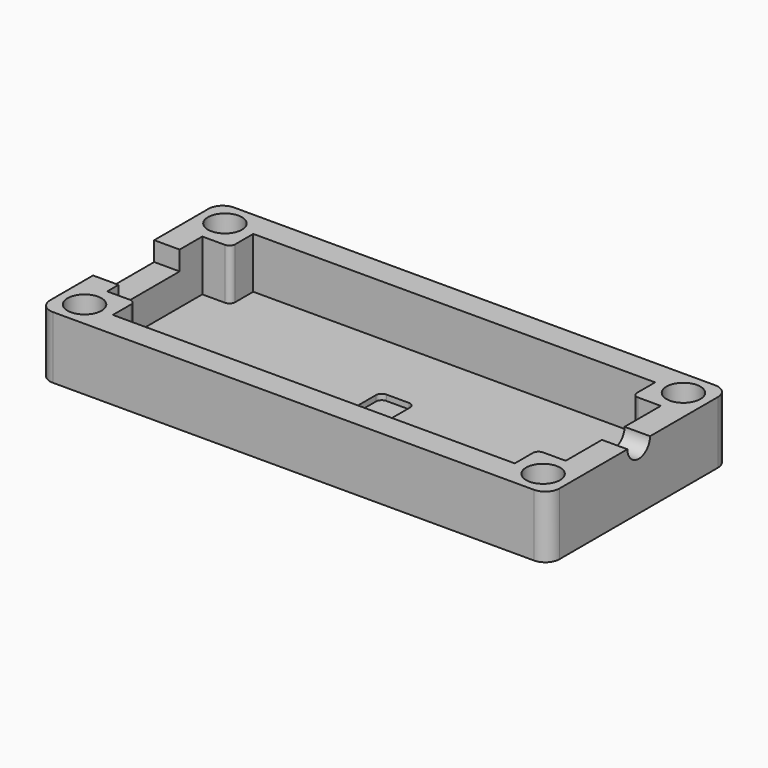
from build123d import *

# Parameters (mm, degrees)
SKETCH_W        = 90
SKETCH_H        = 40
PAD_DEPTH       = 11
POCKET_DEPTH    = 9
POCKET001_DEPTH = 6
SKETCH003_W     = 13.5
SKETCH003_H     = 3.4
POCKET002_DEPTH = 6
SKETCH005_R     = 3
HOLE_DEPTH      = 25
FILLET_R        = 1
FILLET001_R     = 2.5
SKETCH007_W     = 6
SKETCH007_H     = 6
POCKET003_DEPTH = 1
FILLET002_R     = 1


with BuildPart() as part:
    # Sketch → Pad (new body)
    with BuildSketch(Plane.XY):
        with Locations((45, 20)):
            Rectangle(SKETCH_W, SKETCH_H)
    extrude(amount=PAD_DEPTH)

    # Sketch001 (on Face6 of Pad) → Pocket (cut)
    with BuildSketch(Plane.XY.offset(11)):
        Polygon((4.5, 30.5), (4.5, 9.5), (9.5, 9.5), (9.5, 4.5), (80.5, 4.5), (80.5, 9.5), (85.5, 9.5), (85.5, 30.5), (80.5, 30.5), (80.5, 35.5), (9.5, 35.5), (9.5, 30.5), align=None)
    extrude(amount=-POCKET_DEPTH, mode=Mode.SUBTRACT)

    # Sketch002 (on Face6 of Pocket) → Pocket001 (cut)
    with BuildSketch(Plane.YZ.offset(90)):
        with BuildLine():
            ThreePointArc((17.5, 11), (20, 8.499988), (22.5, 11))
            Line((17.5, 11), (22.5, 11))
        make_face()
    extrude(amount=-POCKET001_DEPTH, mode=Mode.SUBTRACT)

    # Sketch003 (on Face1 of Pocket001) → Pocket002 (cut)
    with BuildSketch(Plane(origin=(0, 0, 0), x_dir=(0, -1, 0), z_dir=(-1, 0, 0))):
        with Locations((-18.75, 9.3)):
            Rectangle(SKETCH003_W, SKETCH003_H)
    extrude(amount=-POCKET002_DEPTH, mode=Mode.SUBTRACT)

    # Sketch005 (on Face8 of Pocket002) → Hole (cut)
    with BuildSketch(Plane.XY.offset(11)):
        with Locations((4.5, 35.5)):
            Circle(SKETCH005_R)
        with Locations((4.5, 4.5)):
            Circle(SKETCH005_R)
        with Locations((85.5, 35.5)):
            Circle(SKETCH005_R)
        with Locations((85.5, 4.5)):
            Circle(SKETCH005_R)
    extrude(amount=-HOLE_DEPTH, mode=Mode.SUBTRACT)

    # Fillet
    fillet_edges = [part.edges().sort_by_distance(p)[0] for p in [
        (9.5, 30.5, 6.5),
        (80.5, 30.5, 6.5),
        (9.5, 9.5, 6.5),
        (80.5, 9.5, 6.5),
    ]]
    fillet(fillet_edges, radius=FILLET_R)

    # Fillet001
    fillet001_edges = [part.edges().sort_by_distance(p)[0] for p in [
        (0, 40, 5.5),
        (90, 40, 5.5),
        (90, 0, 5.5),
        (0, 0, 5.5),
    ]]
    fillet(fillet001_edges, radius=FILLET001_R)

    # Sketch007 (on Face25 of Fillet001) → Pocket003 (cut)
    with BuildSketch(Plane.XY.offset(2)):
        with Locations((45, 20)):
            Rectangle(SKETCH007_W, SKETCH007_H)
    extrude(amount=-POCKET003_DEPTH, mode=Mode.SUBTRACT)

    # Fillet002
    fillet002_edges = [part.edges().sort_by_distance(p)[0] for p in [
        (48, 23, 1.5),
        (42, 23, 1.5),
        (42, 17, 1.5),
        (48, 17, 1.5),
    ]]
    fillet(fillet002_edges, radius=FILLET002_R)


solid = part.part
